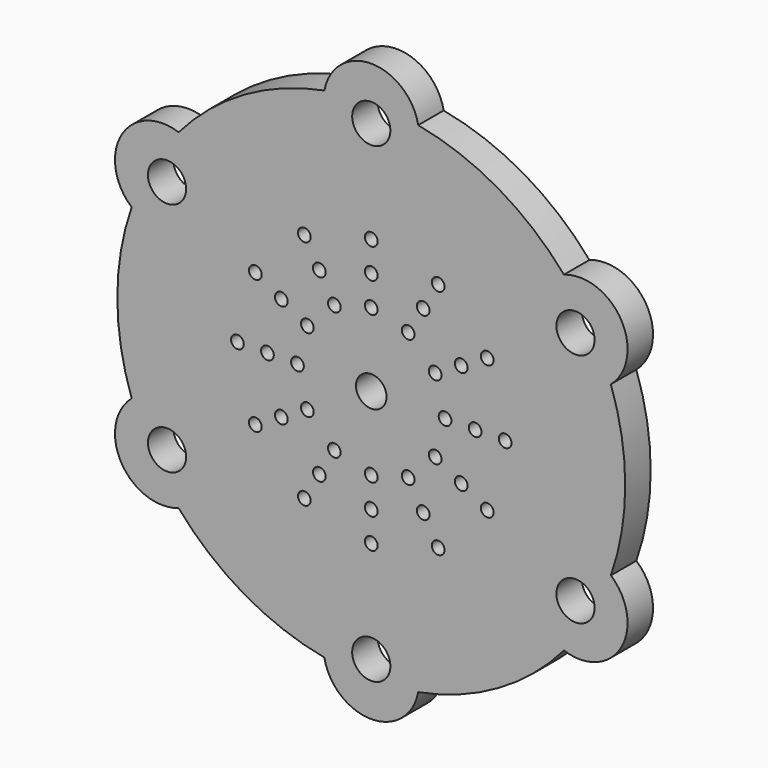
from build123d import *

# Parameters (mm, degrees)
F0_R     = 1.905
F0_R_2   = 0.635
F0_R_3   = 1.524
F1_DEPTH = 3.175


with BuildPart() as f1:
    # F0 (on Front) → F1 (new body)
    with BuildSketch(Plane.XZ):
        with BuildLine():
            ThreePointArc((19.228741, 16.508046), (12.671425, 21.947552), (4.682017, 24.906601))
            ThreePointArc((4.682017, 24.906601), (0, 28.79725), (-4.682017, 24.906601))
            ThreePointArc((-4.682017, 24.906601), (-12.671425, 21.947552), (-19.228741, 16.508046))
            ThreePointArc((-19.228741, 16.508046), (-24.93915, 14.398625), (-23.910757, 8.398555))
            ThreePointArc((-23.910757, 8.398555), (-25.34285, 0), (-23.910757, -8.398555))
            ThreePointArc((-23.910757, -8.398555), (-24.93915, -14.398625), (-19.228741, -16.508046))
            ThreePointArc((-19.228741, -16.508046), (-12.671425, -21.947552), (-4.682017, -24.906601))
            ThreePointArc((-4.682017, -24.906601), (0, -28.79725), (4.682017, -24.906601))
            ThreePointArc((4.682017, -24.906601), (12.671425, -21.947552), (19.228741, -16.508046))
            ThreePointArc((19.228741, -16.508046), (24.93915, -14.398625), (23.910757, -8.398555))
            ThreePointArc((23.910757, -8.398555), (25.34285, 0), (23.910757, 8.398555))
            ThreePointArc((23.910757, 8.398555), (24.93915, 14.398625), (19.228741, 16.508046))
        make_face()
        with Locations((-20.381691, -11.767375)):
            Circle(F0_R, mode=Mode.SUBTRACT)
        with Locations((-6.6802, -11.570446)):
            Circle(F0_R_2, mode=Mode.SUBTRACT)
        with Locations((-5.1816, -8.974794)):
            Circle(F0_R_2, mode=Mode.SUBTRACT)
        with Locations((-11.570446, -6.6802)):
            Circle(F0_R_2, mode=Mode.SUBTRACT)
        with Locations((-8.974794, -5.1816)):
            Circle(F0_R_2, mode=Mode.SUBTRACT)
        with Locations((-3.683, -6.379143)):
            Circle(F0_R_2, mode=Mode.SUBTRACT)
        with Locations((-6.379143, -3.683)):
            Circle(F0_R_2, mode=Mode.SUBTRACT)
        with Locations((0, -23.53475)):
            Circle(F0_R, mode=Mode.SUBTRACT)
        with Locations((0, -13.3604)):
            Circle(F0_R_2, mode=Mode.SUBTRACT)
        with Locations((0, -10.3632)):
            Circle(F0_R_2, mode=Mode.SUBTRACT)
        with Locations((0, -7.366)):
            Circle(F0_R_2, mode=Mode.SUBTRACT)
        with Locations((5.1816, -8.974794)):
            Circle(F0_R_2, mode=Mode.SUBTRACT)
        with Locations((6.6802, -11.570446)):
            Circle(F0_R_2, mode=Mode.SUBTRACT)
        with Locations((3.683, -6.379143)):
            Circle(F0_R_2, mode=Mode.SUBTRACT)
        with Locations((6.379143, -3.683)):
            Circle(F0_R_2, mode=Mode.SUBTRACT)
        with Locations((8.974794, -5.1816)):
            Circle(F0_R_2, mode=Mode.SUBTRACT)
        with Locations((11.570446, -6.6802)):
            Circle(F0_R_2, mode=Mode.SUBTRACT)
        with Locations((20.381691, -11.767375)):
            Circle(F0_R, mode=Mode.SUBTRACT)
        with Locations((-13.3604, 0)):
            Circle(F0_R_2, mode=Mode.SUBTRACT)
        with Locations((-20.381691, 11.767375)):
            Circle(F0_R, mode=Mode.SUBTRACT)
        with Locations((-10.3632, 0)):
            Circle(F0_R_2, mode=Mode.SUBTRACT)
        with Locations((-7.366, 0)):
            Circle(F0_R_2, mode=Mode.SUBTRACT)
        with Locations((-11.570446, 6.6802)):
            Circle(F0_R_2, mode=Mode.SUBTRACT)
        with Locations((-8.974794, 5.1816)):
            Circle(F0_R_2, mode=Mode.SUBTRACT)
        with Locations((-6.379143, 3.683)):
            Circle(F0_R_2, mode=Mode.SUBTRACT)
        with Locations((-3.683, 6.379143)):
            Circle(F0_R_2, mode=Mode.SUBTRACT)
        with Locations((-6.6802, 11.570446)):
            Circle(F0_R_2, mode=Mode.SUBTRACT)
        with Locations((-5.1816, 8.974794)):
            Circle(F0_R_2, mode=Mode.SUBTRACT)
        Circle(F0_R_3, mode=Mode.SUBTRACT)
        with Locations((6.379143, 3.683)):
            Circle(F0_R_2, mode=Mode.SUBTRACT)
        with Locations((3.683, 6.379143)):
            Circle(F0_R_2, mode=Mode.SUBTRACT)
        with Locations((7.366, 0)):
            Circle(F0_R_2, mode=Mode.SUBTRACT)
        with Locations((10.3632, 0)):
            Circle(F0_R_2, mode=Mode.SUBTRACT)
        with Locations((8.974794, 5.1816)):
            Circle(F0_R_2, mode=Mode.SUBTRACT)
        with Locations((11.570446, 6.6802)):
            Circle(F0_R_2, mode=Mode.SUBTRACT)
        with Locations((0, 7.366)):
            Circle(F0_R_2, mode=Mode.SUBTRACT)
        with Locations((0, 10.3632)):
            Circle(F0_R_2, mode=Mode.SUBTRACT)
        with Locations((5.1816, 8.974794)):
            Circle(F0_R_2, mode=Mode.SUBTRACT)
        with Locations((0, 13.3604)):
            Circle(F0_R_2, mode=Mode.SUBTRACT)
        with Locations((6.6802, 11.570446)):
            Circle(F0_R_2, mode=Mode.SUBTRACT)
        with Locations((13.3604, 0)):
            Circle(F0_R_2, mode=Mode.SUBTRACT)
        with Locations((20.381691, 11.767375)):
            Circle(F0_R, mode=Mode.SUBTRACT)
        with Locations((0, 23.53475)):
            Circle(F0_R, mode=Mode.SUBTRACT)
    extrude(amount=F1_DEPTH)


solid = f1.part
